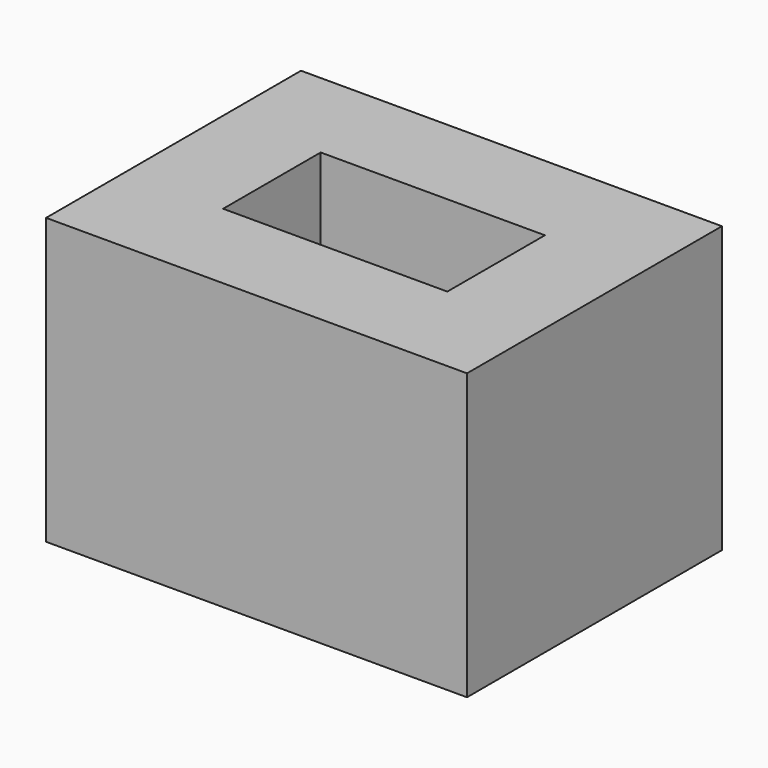
from build123d import *

# Parameters (mm, degrees)
F0_W     = 42.8
F0_H     = 32.4
F0_W_2   = 22.8
F0_H_2   = 12.4
F1_DEPTH = 24
F2_W     = 42.8
F2_H     = 32.4
F3_DEPTH = 5
F4_W     = 5
F4_H     = 10
F5_DEPTH = 25.4


with BuildPart() as f1:
    # F0 (on Top) → F1 (new body)
    with BuildSketch(Plane.XY):
        Rectangle(F0_W, F0_H)
        Rectangle(F0_W_2, F0_H_2, mode=Mode.SUBTRACT)
    extrude(amount=F1_DEPTH)

    # F2 (on face) → F3 (join)
    with BuildSketch(Plane(origin=(0, 0, 0), x_dir=(1, 0, 0), z_dir=(0, 0, -1))):
        Rectangle(F2_W, F2_H)
    extrude(amount=F3_DEPTH)

    # F4 (on face) → F5 (cut)
    with BuildSketch(Plane(origin=(-21.4, 0, 0), x_dir=(0, -1, 0), z_dir=(-1, 0, 0))):
        with Locations((0.08081, 10.283196)):
            Rectangle(F4_W, F4_H)
    extrude(amount=-F5_DEPTH, mode=Mode.SUBTRACT)


solid = f1.part
